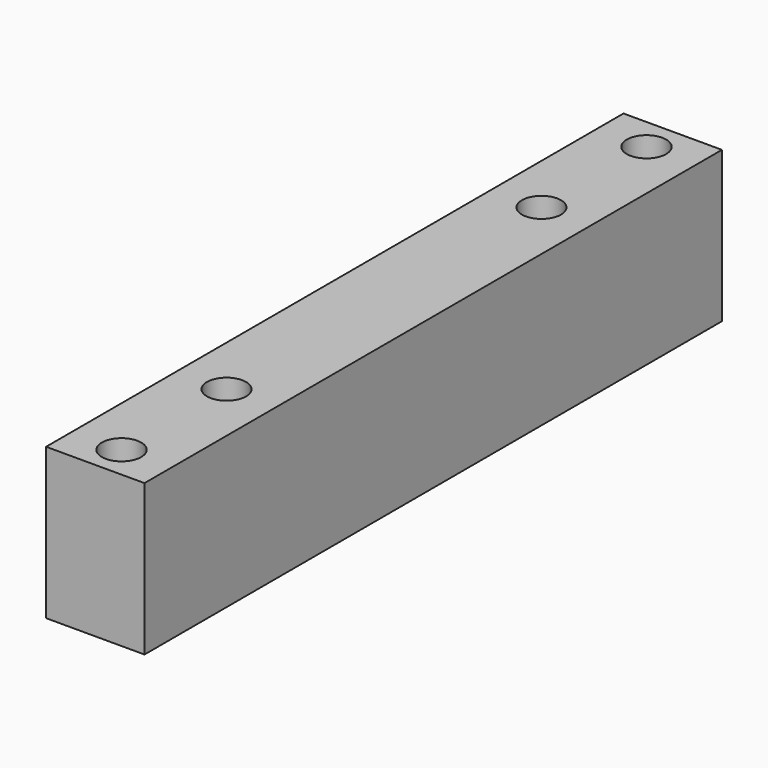
from build123d import *

# Parameters (mm, degrees)
CYLINDER_R     = 2.98
CYLINDER_DEPTH = 6.01
ARRAY_Y_COUNT  = 2
ARRAY_Y_PITCH  = 60
SKETCH_W       = 15
SKETCH_H       = 110
SKETCH_R       = 2.1
PAD_DEPTH      = 23
SKETCH001_R    = 3
POCKET_DEPTH   = 6
CHAMFER_SIZE   = 0.89


with BuildPart() as cono:
    # Cone → Cone (revolve)
    with BuildSketch(Plane(origin=(0, 0, 6.01), x_dir=(1, 0, 0), z_dir=(0, -1, 0))):
        Polygon((0, 0), (2.98, 0), (0, 1.63), align=None)
    revolve(axis=Axis((0, 0, 6.01), (0, 0, 1)))


with BuildPart() as fusion:
    # Cylinder → Cylinder (new body)
    with BuildSketch(Plane.XY):
        Circle(CYLINDER_R)
    extrude(amount=CYLINDER_DEPTH)

    # Fusion: union Cono
    add(cono.part)


with BuildPart() as fusion_1:
    # Fusion placement: moved
    add(fusion.part.moved(Location((0, 30, -23))))


with BuildPart() as array:
    # Part__Mirroring: instance of Fusion
    add(fusion_1.part.mirror(Plane(origin=(0, 0, 0), x_dir=(0, 1, 0), z_dir=(0, 0, 1))))

    # Array Y: Array ×2


with BuildPart() as array_1:
    add(array.part)
    with Locations(*[(0, -i * ARRAY_Y_PITCH, 0) for i in range(1, ARRAY_Y_COUNT)]):
        add(array.part)


with BuildPart() as cut:
    # Sketch → Pad (new body)
    with BuildSketch(Plane.XY):
        Rectangle(SKETCH_W, SKETCH_H)
        with Locations((0, 50)):
            Circle(SKETCH_R, mode=Mode.SUBTRACT)
        with Locations((0, -50)):
            Circle(SKETCH_R, mode=Mode.SUBTRACT)
    extrude(amount=PAD_DEPTH)

    # Sketch001 → Pocket (cut)
    with BuildSketch(Plane.XY.offset(23)):
        with Locations((0, 50)):
            Circle(SKETCH001_R)
        with Locations((0, -50)):
            Circle(SKETCH001_R)
    extrude(amount=-POCKET_DEPTH, mode=Mode.SUBTRACT)

    # Chamfer
    chamfer_edges = [cut.edges().sort_by_distance(p)[0] for p in [
        (-2.1, 50, 17),
        (-2.1, -50, 17),
    ]]
    chamfer(chamfer_edges, length=CHAMFER_SIZE)

    # Cut: cut Array
    add(array_1.part, mode=Mode.SUBTRACT)


solid = cut.part
